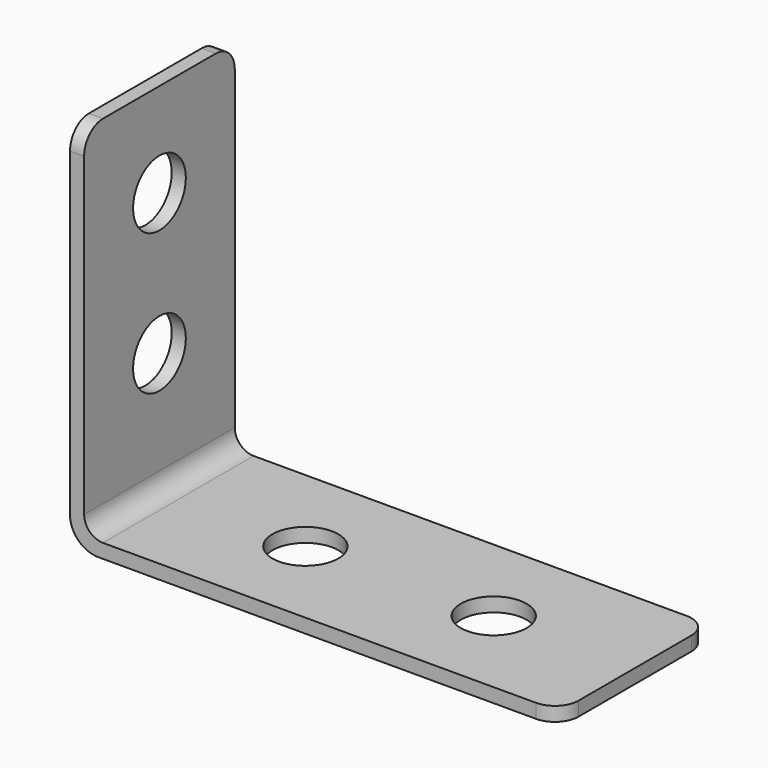
from build123d import *

# Parameters (mm, degrees)
F1_DEPTH = 20
F2_R     = 5
F3_R     = 7
F4_DEPTH = 25
F5_R     = 7
F6_DEPTH = 25


with BuildPart() as f1:
    # F0 (on Front) → F1 (new body, symmetric)
    with BuildSketch(Plane.XZ):
        with BuildLine():
            Line((0, 79), (0, 6))
            ThreePointArc((0, 6), (1.757359, 1.757359), (6, 0))
            Line((6, 0), (104, 0))
            Line((104, 0), (104, 3))
            Line((104, 3), (7, 3))
            ThreePointArc((7, 3), (4.171573, 4.171573), (3, 7))
            Line((3, 7), (3, 79))
            Line((3, 79), (0, 79))
        make_face()
    extrude(amount=F1_DEPTH, both=True)

    # F2
    f2_edges = [f1.edges().sort_by_distance(p)[0] for p in [
        (1.5, -20, 79),
        (1.5, 20, 79),
        (104, 20, 1.5),
        (104, -20, 1.5),
    ]]
    fillet(f2_edges, radius=F2_R)

    # F3 (on face) → F4 (cut)
    with BuildSketch(Plane.XY.offset(3)):
        with Locations((34, 0)):
            Circle(F3_R)
        with Locations((74, 0)):
            Circle(F3_R)
    extrude(amount=-F4_DEPTH, mode=Mode.SUBTRACT)

    # F5 (on face) → F6 (cut)
    with BuildSketch(Plane.YZ.offset(3)):
        with Locations((0, 59)):
            Circle(F5_R)
        with Locations((0, 29)):
            Circle(F5_R)
    extrude(amount=-F6_DEPTH, mode=Mode.SUBTRACT)


solid = f1.part
